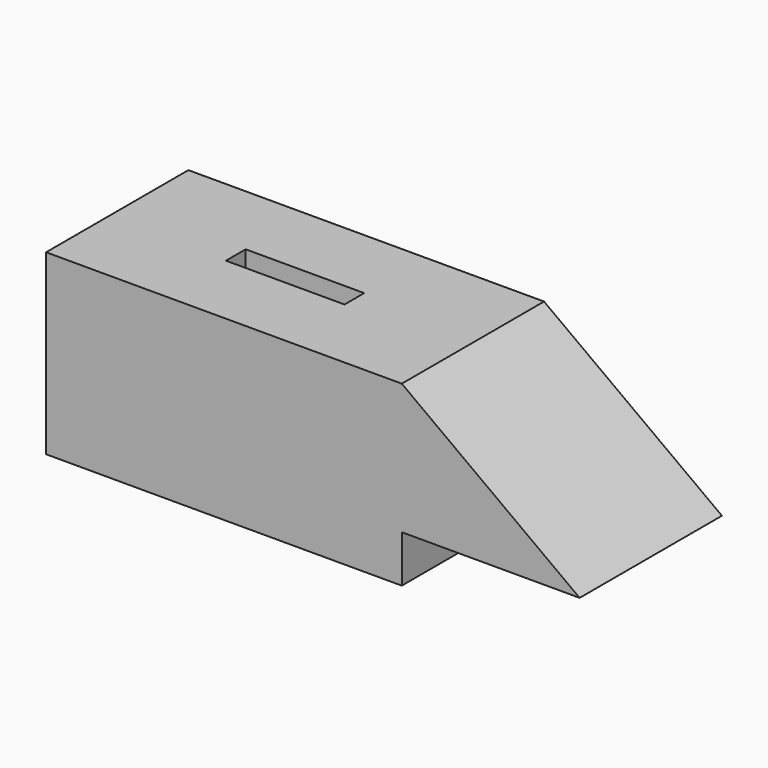
from build123d import *

# Parameters (mm, degrees)
F1_DEPTH = 38.1
F3_DEPTH = 38.1


with BuildPart() as f1:
    # F0 (on Front) → F1 (new body)
    with BuildSketch(Plane.XZ):
        Polygon((-64.931455, 8.465862), (11.268545, 8.465862), (11.268545, 18.554664), (49.368545, 18.554664), (11.268545, 46.565862), (-64.931455, 46.565862), align=None)
    extrude(amount=F1_DEPTH)

    # F2 (on face) → F3 (cut)
    with BuildSketch(Plane.XY.offset(46.565862)):
        Polygon((-39.531455, -21.6916), (-26.831455, -21.6916), (-14.131455, -21.6916), (-14.131455, -16.4084), (-39.531455, -16.4084), align=None)
    extrude(amount=-F3_DEPTH, mode=Mode.SUBTRACT)


solid = f1.part
